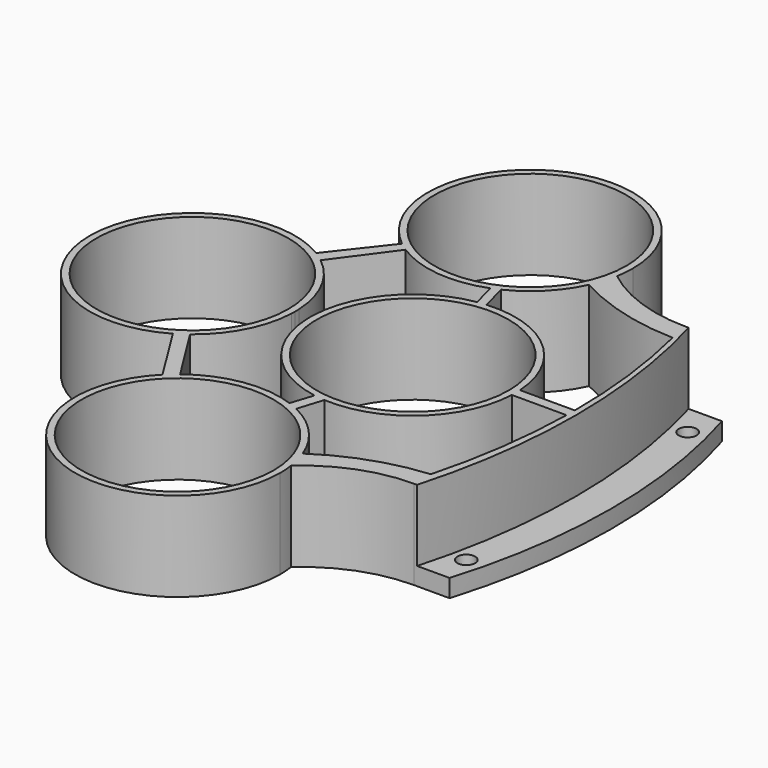
from build123d import *

# Parameters (mm, degrees)
F0_R     = 10.75
F0_R_2   = 1
F1_DEPTH = 10
F3_DEPTH = 8


with BuildPart() as f1:
    # F0 (on Top) → F1 (new body)
    with BuildSketch(Plane.XY):
        with BuildLine():
            ThreePointArc((36.223337, -0.513855), (36.231951, -0.256992), (36.234823, 0))
            ThreePointArc((36.234823, 0), (36.231337, 0.283136), (36.220881, 0.566099))
            ThreePointArc((36.220881, 0.566099), (34.970094, 5.243017), (31.90536, 8.99074))
            ThreePointArc((31.90536, 8.99074), (31.336797, 9.416153), (30.743063, 9.805664))
            ThreePointArc((30.743063, 9.805664), (13.235656, 0.138396), (30.505329, -9.947425))
            ThreePointArc((30.505329, -9.947425), (31.145099, -9.547689), (31.757284, -9.106867))
            ThreePointArc((31.757284, -9.106867), (34.938941, -5.303394), (36.223337, -0.513855))
        make_face()
        with Locations((24.734823, 0)):
            Circle(F0_R, mode=Mode.SUBTRACT)
        with BuildLine():
            ThreePointArc((30.743063, 9.805664), (31.336797, 9.416153), (31.90536, 8.99074))
            Line((31.90536, 8.99074), (36.461842, 15.194908))
            ThreePointArc((36.461842, 15.194908), (35.974444, 15.527726), (35.504763, 15.885112))
            Line((35.504763, 15.885112), (30.743063, 9.805664))
        make_face()
        with BuildLine():
            Line((35.801501, -15.551568), (31.757284, -9.106867))
            ThreePointArc((31.757284, -9.106867), (31.145099, -9.547689), (30.505329, -9.947425))
            Line((30.505329, -9.947425), (34.641704, -16.57368))
            ThreePointArc((34.641704, -16.57368), (35.204408, -16.043114), (35.801501, -15.551568))
        make_face()
        with BuildLine():
            ThreePointArc((35.504763, 15.885112), (35.974444, 15.527726), (36.461842, 15.194908))
            ThreePointArc((36.461842, 15.194908), (41.505803, 13.417533), (46.808252, 14.113698))
            ThreePointArc((46.808252, 14.113698), (47.260174, 14.297578), (47.703891, 14.500462))
            ThreePointArc((47.703891, 14.500462), (50.90449, 16.795867), (53.142839, 20.036625))
            ThreePointArc((53.142839, 20.036625), (53.673116, 21.410853), (54.023386, 22.841591))
            ThreePointArc((54.023386, 22.841591), (54.156552, 23.844509), (54.201055, 24.85525))
            ThreePointArc((54.201055, 24.85525), (37.726488, 35.223648), (35.504763, 15.885112))
        make_face()
        with Locations((42.701055, 24.85525)):
            Circle(F0_R, mode=Mode.SUBTRACT)
        with BuildLine():
            ThreePointArc((46.683059, -13.8434), (41.024466, -13.309943), (35.801501, -15.551568))
            ThreePointArc((35.801501, -15.551568), (35.204408, -16.043114), (34.641704, -16.57368))
            ThreePointArc((34.641704, -16.57368), (38.429578, -35.304748), (54.307877, -24.670817))
            ThreePointArc((54.307877, -24.670817), (54.278084, -23.843561), (54.188859, -23.020592))
            ThreePointArc((54.188859, -23.020592), (53.940365, -21.786771), (53.558527, -20.587495))
            ThreePointArc((53.558527, -20.587495), (51.286543, -16.901504), (47.81258, -14.316931))
            ThreePointArc((47.81258, -14.316931), (47.254128, -14.065118), (46.683059, -13.8434))
        make_face()
        with Locations((42.807877, -24.670817)):
            Circle(F0_R, mode=Mode.SUBTRACT)
        with BuildLine():
            ThreePointArc((64.753707, 19.113328), (59.073924, 20.071944), (54.023386, 22.841591))
            ThreePointArc((54.023386, 22.841591), (53.673116, 21.410853), (53.142839, 20.036625))
            ThreePointArc((53.142839, 20.036625), (58.92646, 17.670233), (65.108922, 16.760697))
            ThreePointArc((65.108922, 16.760697), (66.556881, 8.77204), (67.034756, 0.667296))
            ThreePointArc((67.034756, 0.667296), (67.031522, 0.08929), (67.023336, -0.488666))
            ThreePointArc((67.023336, -0.488666), (66.378356, -8.632887), (64.753707, -16.639438))
            ThreePointArc((64.753707, -16.639438), (58.90465, -17.900402), (53.558527, -20.587495))
            ThreePointArc((53.558527, -20.587495), (53.940365, -21.786771), (54.188859, -23.020592))
            ThreePointArc((54.188859, -23.020592), (59.06548, -20.008301), (64.700213, -18.957059))
            Line((64.700213, -18.957059), (68.700213, -18.957059))
            ThreePointArc((68.700213, -18.957059), (71.554228, 0.074162), (68.753707, 19.113328))
            Line((68.753707, 19.113328), (64.753707, 19.113328))
        make_face()
        with Locations((67.701913, -15.363278)):
            Circle(F0_R_2, mode=Mode.SUBTRACT)
        with Locations((67.716084, 15.614047)):
            Circle(F0_R_2, mode=Mode.SUBTRACT)
        with BuildLine():
            Line((67.034756, 0.667296), (60.888756, 0.667296))
            ThreePointArc((60.888756, 0.667296), (60.903287, 0.333789), (60.908132, 0))
            ThreePointArc((60.908132, 0), (60.905535, -0.244388), (60.897745, -0.488666))
            Line((60.897745, -0.488666), (67.023336, -0.488666))
            ThreePointArc((67.023336, -0.488666), (67.031522, 0.08929), (67.034756, 0.667296))
        make_face()
        with BuildLine():
            ThreePointArc((47.545772, 11.348199), (40.828594, 7.657775), (37.922074, 0.566099))
            ThreePointArc((37.922074, 0.566099), (37.908162, 0.026151), (37.919618, -0.513855))
            ThreePointArc((37.919618, -0.513855), (40.793161, -7.617891), (47.492113, -11.339262))
            ThreePointArc((47.492113, -11.339262), (48.093237, -11.424581), (48.698027, -11.478055))
            ThreePointArc((48.698027, -11.478055), (57.104957, -8.544524), (60.897745, -0.488666))
            ThreePointArc((60.897745, -0.488666), (60.905535, -0.244388), (60.908132, 0))
            ThreePointArc((60.908132, 0), (60.903287, 0.333789), (60.888756, 0.667296))
            ThreePointArc((60.888756, 0.667296), (56.968181, 8.665776), (48.511772, 11.465014))
            ThreePointArc((48.511772, 11.465014), (48.027536, 11.416828), (47.545772, 11.348199))
        make_face()
        with Locations((49.408132, 0)):
            Circle(F0_R, mode=Mode.SUBTRACT)
        with BuildLine():
            ThreePointArc((48.698027, -11.478055), (48.093237, -11.424581), (47.492113, -11.339262))
            Line((47.492113, -11.339262), (46.683059, -13.8434))
            ThreePointArc((46.683059, -13.8434), (47.254128, -14.065118), (47.81258, -14.316931))
            Line((47.81258, -14.316931), (48.698027, -11.478055))
        make_face()
        with BuildLine():
            Line((46.808252, 14.113698), (47.545772, 11.348199))
            ThreePointArc((47.545772, 11.348199), (48.027536, 11.416828), (48.511772, 11.465014))
            Line((48.511772, 11.465014), (47.703891, 14.500462))
            ThreePointArc((47.703891, 14.500462), (47.260174, 14.297578), (46.808252, 14.113698))
        make_face()
    extrude(amount=F1_DEPTH)

    # F2 (on face) → F3 (cut)
    with BuildSketch(Plane.XY.offset(10)):
        with BuildLine():
            ThreePointArc((64.691441, 20.241771), (67.681433, 0.271326), (64.846344, -19.721698))
            Line((64.846344, -19.721698), (72.092779, -18.957059))
            Line((72.092779, -18.957059), (72.688676, -0.838101))
            Line((72.688676, -0.838101), (70.528544, 20.241771))
            Line((70.528544, 20.241771), (64.691441, 20.241771))
        make_face()
    extrude(amount=-F3_DEPTH, mode=Mode.SUBTRACT)


solid = f1.part
